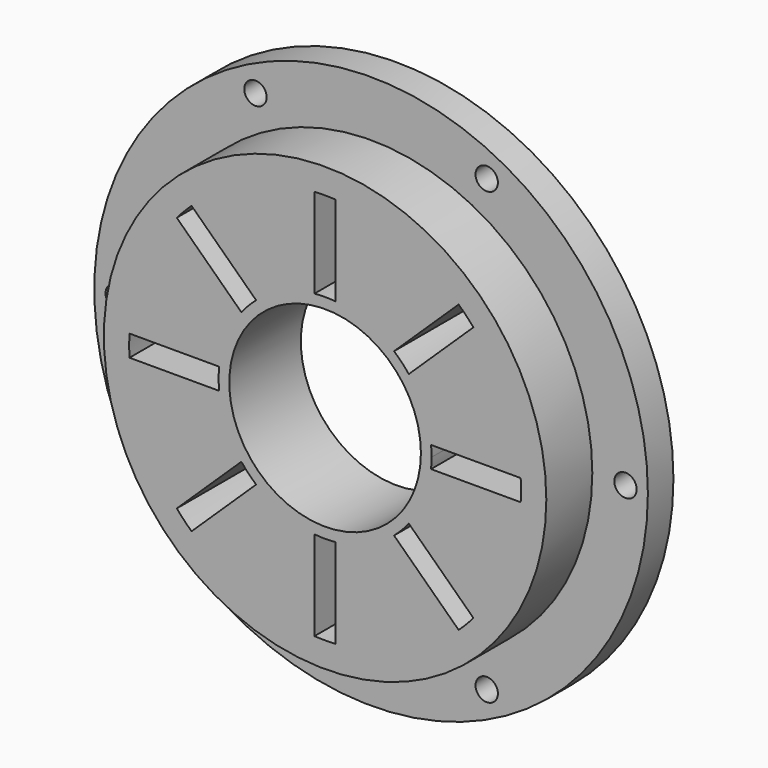
from build123d import *

# Parameters (mm, degrees)
F0_R     = 130
F0_R_2   = 5.25
F0_R_3   = 103.9
F1_DEPTH = 15
F0_R_4   = 95
F0_R_5   = 45
F2_DEPTH = 42


with BuildPart() as f1:
    # F0 (on Front) → F1 (new body)
    with BuildSketch(Plane.XZ):
        Circle(F0_R)
        with Locations((-54.3090440333, -105.6210622191)):
            Circle(F0_R_2, mode=Mode.SUBTRACT)
        with Locations((54.3090440333, -105.6210622191)):
            Circle(F0_R_2, mode=Mode.SUBTRACT)
        with Locations((-119.4707155228, 0)):
            Circle(F0_R_2, mode=Mode.SUBTRACT)
        with Locations((-54.3090440333, 105.6210622191)):
            Circle(F0_R_2, mode=Mode.SUBTRACT)
        Circle(F0_R_3, mode=Mode.SUBTRACT)
        with Locations((119.4707155228, 0)):
            Circle(F0_R_2, mode=Mode.SUBTRACT)
        with Locations((54.3090440333, 105.6210622191)):
            Circle(F0_R_2, mode=Mode.SUBTRACT)
    extrude(amount=F1_DEPTH)

    # F0 (on Front) → F2 (join)
    with BuildSketch(Plane.XZ):
        Circle(F0_R_3)
        Circle(F0_R_4, mode=Mode.SUBTRACT)
        Circle(F0_R_4)
        with BuildLine():
            ThreePointArc((69.6607525504, 60.094754797), (85.33124775, 34.3886341314), (91.8640299573, 5))
            ThreePointArc((91.8640299573, 5), (91.9660012072, 2.5009242218), (92, 0))
            ThreePointArc((92, 0), (91.9660012072, -2.5009242218), (91.8640299573, -5))
            ThreePointArc((91.8640299573, -5), (85.33124775, -34.3886341314), (69.6607525504, -60.094754797))
            ThreePointArc((69.6607525504, -60.094754797), (66.2917791865, -63.7918491054), (62.7268559085, -67.3003829694))
            ThreePointArc((62.7268559085, -67.3003829694), (36.0218675411, -84.6547403212), (5, -91.8640299573))
            ThreePointArc((5, -91.8640299573), (0, -92), (-5, -91.8640299573))
            ThreePointArc((-5, -91.8640299573), (-36.0218675411, -84.6547403212), (-62.7268559085, -67.3003829694))
            ThreePointArc((-62.7268559085, -67.3003829694), (-66.2917791865, -63.7918491054), (-69.6607525504, -60.094754797))
            ThreePointArc((-69.6607525504, -60.094754797), (-85.33124775, -34.3886341314), (-91.8640299573, -5))
            ThreePointArc((-91.8640299573, -5), (-92, 0), (-91.8640299573, 5))
            ThreePointArc((-91.8640299573, 5), (-85.33124775, 34.3886341314), (-69.6607525504, 60.094754797))
            ThreePointArc((-69.6607525504, 60.094754797), (-66.2917791865, 63.7918491054), (-62.7268559085, 67.3003829694))
            ThreePointArc((-62.7268559085, 67.3003829694), (-36.0218675411, 84.6547403212), (-5, 91.8640299573))
            ThreePointArc((-5, 91.8640299573), (0, 92), (5, 91.8640299573))
            ThreePointArc((5, 91.8640299573), (36.0218675411, 84.6547403212), (62.7268559085, 67.3003829694))
            ThreePointArc((62.7268559085, 67.3003829694), (66.2917791865, 63.7918491054), (69.6607525504, 60.094754797))
        make_face(mode=Mode.SUBTRACT)
        with BuildLine():
            ThreePointArc((49.7493718553, -5), (49.9373036555, -2.503138753), (50, 0))
            ThreePointArc((50, 0), (49.9373036555, 2.503138753), (49.7493718553, 5))
            ThreePointArc((49.7493718553, 5), (46.375678125, 18.6894750714), (39.3144958612, 30.8928861582))
            ThreePointArc((39.3144958612, 30.8928861582), (36.0281408622, 34.6694832095), (32.3805992193, 38.0985143306))
            ThreePointArc((32.3805992193, 38.0985143306), (19.5771019245, 46.0080110441), (5, 49.7493718553))
            ThreePointArc((5, 49.7493718553), (0, 50), (-5, 49.7493718553))
            ThreePointArc((-5, 49.7493718553), (-19.5771019245, 46.0080110441), (-32.3805992193, 38.0985143306))
            ThreePointArc((-32.3805992193, 38.0985143306), (-36.0281408622, 34.6694832095), (-39.3144958612, 30.8928861582))
            ThreePointArc((-39.3144958612, 30.8928861582), (-46.375678125, 18.6894750714), (-49.7493718553, 5))
            ThreePointArc((-49.7493718553, 5), (-50, 0), (-49.7493718553, -5))
            ThreePointArc((-49.7493718553, -5), (-46.375678125, -18.6894750714), (-39.3144958612, -30.8928861582))
            ThreePointArc((-39.3144958612, -30.8928861582), (-36.0281408622, -34.6694832095), (-32.3805992193, -38.0985143306))
            ThreePointArc((-32.3805992193, -38.0985143306), (-19.5771019245, -46.0080110441), (-5, -49.7493718553))
            ThreePointArc((-5, -49.7493718553), (0, -50), (5, -49.7493718553))
            ThreePointArc((5, -49.7493718553), (19.5771019245, -46.0080110441), (32.3805992193, -38.0985143306))
            ThreePointArc((32.3805992193, -38.0985143306), (36.0281408622, -34.6694832095), (39.3144958612, -30.8928861582))
            ThreePointArc((39.3144958612, -30.8928861582), (46.375678125, -18.6894750714), (49.7493718553, -5))
        make_face()
        Circle(F0_R_5, mode=Mode.SUBTRACT)
        with BuildLine():
            ThreePointArc((5, 49.7493718553), (19.5771019245, 46.0080110441), (32.3805992193, 38.0985143306))
            Line((32.3805992193, 38.0985143306), (62.7268559085, 67.3003829694))
            ThreePointArc((62.7268559085, 67.3003829694), (36.0218675411, 84.6547403212), (5, 91.8640299573))
            Line((5, 91.8640299573), (5, 49.7493718553))
        make_face()
        with BuildLine():
            ThreePointArc((-32.3805992193, 38.0985143306), (-19.5771019245, 46.0080110441), (-5, 49.7493718553))
            Line((-5, 49.7493718553), (-5, 91.8640299573))
            ThreePointArc((-5, 91.8640299573), (-36.0218675411, 84.6547403212), (-62.7268559085, 67.3003829694))
            Line((-62.7268559085, 67.3003829694), (-32.3805992193, 38.0985143306))
        make_face()
        with BuildLine():
            Line((-5, -91.8640299573), (-5, -49.7493718553))
            ThreePointArc((-5, -49.7493718553), (-19.5771019245, -46.0080110441), (-32.3805992193, -38.0985143306))
            Line((-32.3805992193, -38.0985143306), (-62.7268559085, -67.3003829694))
            ThreePointArc((-62.7268559085, -67.3003829694), (-36.0218675411, -84.6547403212), (-5, -91.8640299573))
        make_face()
        with BuildLine():
            Line((62.7268559085, -67.3003829694), (32.3805992193, -38.0985143306))
            ThreePointArc((32.3805992193, -38.0985143306), (19.5771019245, -46.0080110441), (5, -49.7493718553))
            Line((5, -49.7493718553), (5, -91.8640299573))
            ThreePointArc((5, -91.8640299573), (36.0218675411, -84.6547403212), (62.7268559085, -67.3003829694))
        make_face()
        with BuildLine():
            ThreePointArc((39.3144958612, 30.8928861582), (46.375678125, 18.6894750714), (49.7493718553, 5))
            Line((49.7493718553, 5), (91.8640299573, 5))
            ThreePointArc((91.8640299573, 5), (85.33124775, 34.3886341314), (69.6607525504, 60.094754797))
            Line((69.6607525504, 60.094754797), (39.3144958612, 30.8928861582))
        make_face()
        with BuildLine():
            ThreePointArc((-49.7493718553, 5), (-46.375678125, 18.6894750714), (-39.3144958612, 30.8928861582))
            Line((-39.3144958612, 30.8928861582), (-69.6607525504, 60.094754797))
            ThreePointArc((-69.6607525504, 60.094754797), (-85.33124775, 34.3886341314), (-91.8640299573, 5))
            Line((-91.8640299573, 5), (-49.7493718553, 5))
        make_face()
        with BuildLine():
            Line((-69.6607525504, -60.094754797), (-39.3144958612, -30.8928861582))
            ThreePointArc((-39.3144958612, -30.8928861582), (-46.375678125, -18.6894750714), (-49.7493718553, -5))
            Line((-49.7493718553, -5), (-91.8640299573, -5))
            ThreePointArc((-91.8640299573, -5), (-85.33124775, -34.3886341314), (-69.6607525504, -60.094754797))
        make_face()
        with BuildLine():
            Line((91.8640299573, -5), (49.7493718553, -5))
            ThreePointArc((49.7493718553, -5), (46.375678125, -18.6894750714), (39.3144958612, -30.8928861582))
            Line((39.3144958612, -30.8928861582), (69.6607525504, -60.094754797))
            ThreePointArc((69.6607525504, -60.094754797), (85.33124775, -34.3886341314), (91.8640299573, -5))
        make_face()
    extrude(amount=F2_DEPTH)


solid = f1.part
